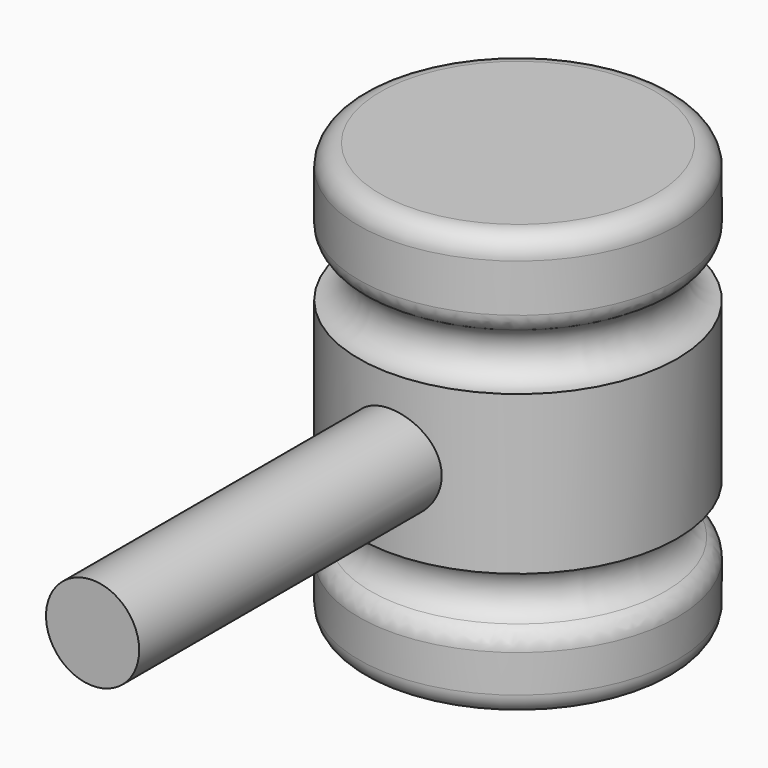
from build123d import *

# Parameters (mm, degrees)
F2_R     = 5.08
F3_R     = 11.147924
F4_DEPTH = 127


with BuildPart() as f1:
    # F0 (on Front) → F1 (revolve)
    with BuildSketch(Plane.XZ):
        with BuildLine():
            Line((-38.1, 0), (0, 0))
            Line((0, 0), (0, 17.934583))
            ThreePointArc((0, 17.934583), (-6.35, 24.284583), (0, 30.634583))
            Line((0, 30.634583), (0, 68.505745))
            ThreePointArc((0, 68.505745), (-6.35, 74.855745), (0, 81.205745))
            Line((0, 81.205745), (0, 101.6))
            Line((0, 101.6), (-38.1, 101.6))
            Line((-38.1, 101.6), (-38.1, 0))
        make_face()
    revolve(axis=Axis((-38.1, 0, 50.8), (0, 0, 1)))

    # F2
    f2_edges = [f1.edges().sort_by_distance(p)[0] for p in [
        (-76.2, 0, 101.6),
        (-76.2, 0, 0),
        (-76.2, 0, 17.934583),
        (0, 0, 8.967291),
        (-76.2, 0, 81.205745),
    ]]
    fillet(f2_edges, radius=F2_R)

    # F3 (on Front) → F4 (join)
    with BuildSketch(Plane.XZ):
        with Locations((-38.318235, 49.904328)):
            Circle(F3_R)
    extrude(amount=F4_DEPTH)


solid = f1.part
